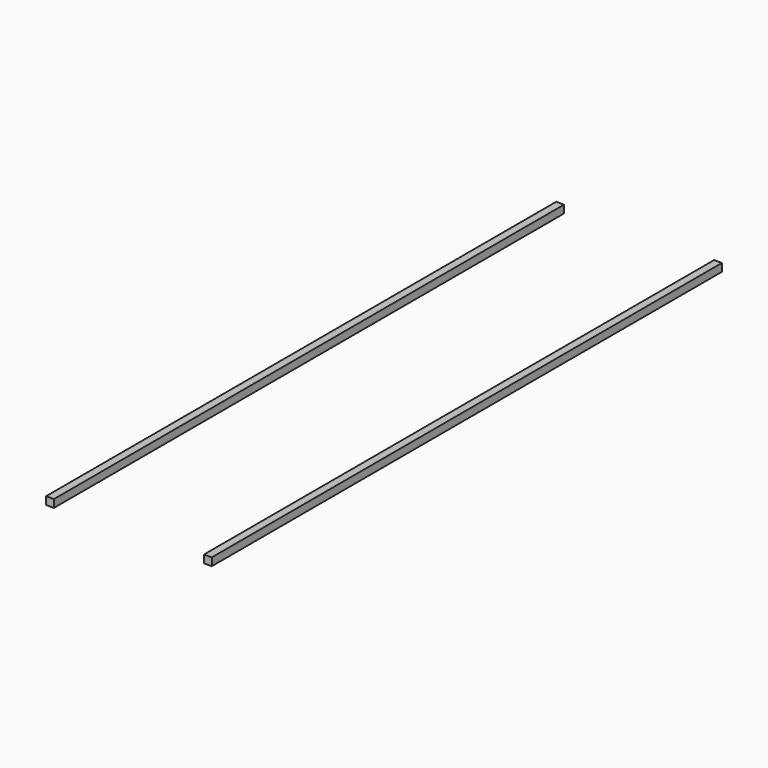
from build123d import *

# Parameters (mm, degrees)
F1_DEPTH = 63.5


with BuildPart() as f1:
    # F0 (on Top) → F1 (new body)
    with BuildSketch(Plane.XY):
        Polygon((673.1, 2589.753357), (609.6, 2589.753357), (609.6, 1657.659292), (609.6, 746.971726), (609.6, -746.971726), (609.6, -1657.659292), (609.6, -2591.846643), (673.1, -2591.846643), align=None)
        Polygon((-609.6, 2589.753357), (-673.1, 2589.753357), (-673.1, -2591.846643), (-609.6, -2591.846643), (-609.6, -1657.659292), (-609.6, -746.971726), (-609.6, 746.971726), (-609.6, 1657.659292), align=None)
    extrude(amount=F1_DEPTH)


solid = f1.part
